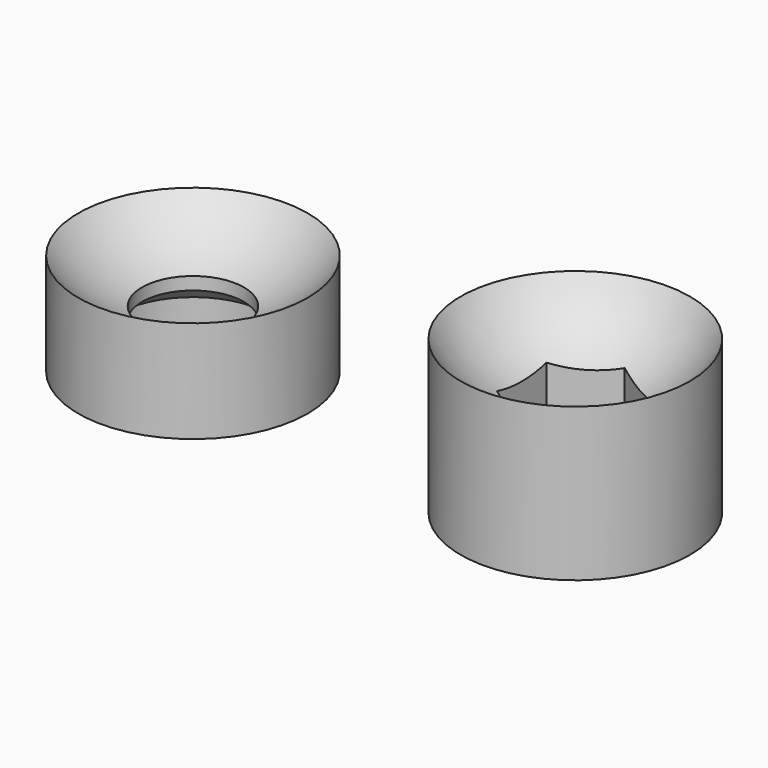
from build123d import *

# Parameters (mm, degrees)
F7_DEPTH = 5


with BuildPart() as f2:
    # F0 (on Front) → F2 (revolve)
    with BuildSketch(Plane.XZ):
        with BuildLine():
            Line((6, 2), (6, 0))
            Line((6, 0), (9, 0))
            Line((9, 0), (9, 8))
            ThreePointArc((9, 8), (6.731456, 5.919349), (4, 4.5))
            Line((4, 4.5), (4, 3.5))
            Line((4, 3.5), (6, 2))
        make_face()
    revolve(axis=Axis((0, 0, 8.674054), (0, 0, 1)))


with BuildPart() as f5:
    # F4 (on Front) → F5 (revolve)
    with BuildSketch(Plane.XZ):
        with BuildLine():
            Line((32, 7), (32, 0))
            Line((32, 0), (39, 0))
            Line((39, 0), (39, 12))
            ThreePointArc((39, 12), (36.041523, 8.741868), (32, 7))
        make_face()
    revolve(axis=Axis((30, 0, 15), (0, 0, 1)))


with BuildPart() as f7:
    # F6 (on Top) → F7 (new body)
    with BuildSketch(Plane.XY):
        Polygon((34.2, -2.424871), (34.2, 2.424871), (30, 4.849742), (25.8, 2.424871), (25.8, -2.424871), (30, -4.849742), align=None)
    extrude(amount=F7_DEPTH)


with BuildPart() as f7_1:
    # F8: moved
    add(f7.part.moved(Location((0, 0, 4))))


with BuildPart() as f5_1:
    add(f5.part)

    # F9: cut F7
    add(f7_1.part, mode=Mode.SUBTRACT)


solid = Compound([f2.part, f5_1.part])
